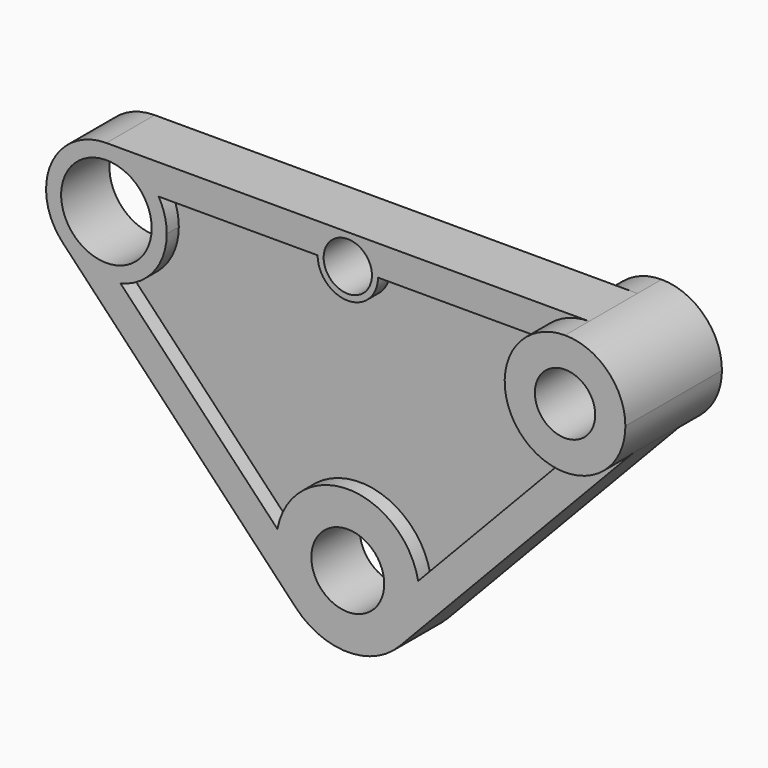
from build123d import *

# Parameters (mm, degrees)
F0_R     = 9.525
F0_R_2   = 5.08
F0_R_3   = 6.35
F0_R_4   = 7.668055
F1_DEPTH = 6.35
F2_DEPTH = 3.175
F3_DEPTH = 12.7


with BuildPart() as f1:
    # F0 (on Front) → F1 (new body, symmetric)
    with BuildSketch(Plane.XZ):
        with BuildLine():
            ThreePointArc((-47.831061, 12.261839), (-40.825144, 16.749128), (-38.1, 24.609932))
            ThreePointArc((-38.1, 24.609932), (-38.532742, 27.896934), (-39.801477, 30.959932))
            ThreePointArc((-39.801477, 30.959932), (-44.45, 35.608455), (-50.8, 37.309932))
            ThreePointArc((-50.8, 37.309932), (-62.469497, 29.621203), (-60.009293, 15.864709))
            ThreePointArc((-60.009293, 15.864709), (-54.40287, 12.4317), (-47.831061, 12.261839))
        make_face()
        with Locations((-50.8, 24.609932)):
            Circle(F0_R, mode=Mode.SUBTRACT)
        with BuildLine():
            ThreePointArc((-50.8, 37.309932), (-44.45, 35.608455), (-39.801477, 30.959932))
            Line((-39.801477, 30.959932), (-6.35, 30.959932))
            ThreePointArc((-6.35, 30.959932), (-4.490128, 35.45006), (0, 37.309932))
            Line((0, 37.309932), (-50.8, 37.309932))
        make_face()
        with BuildLine():
            ThreePointArc((0, 37.309932), (-4.490128, 35.45006), (-6.35, 30.959932))
            ThreePointArc((-6.35, 30.959932), (0, 24.609932), (6.35, 30.959932))
            ThreePointArc((6.35, 30.959932), (4.490128, 35.45006), (0, 37.309932))
        make_face()
        with Locations((0, 30.959932)):
            Circle(F0_R_2, mode=Mode.SUBTRACT)
        with BuildLine():
            Line((50.8, 37.309932), (0, 37.309932))
            ThreePointArc((0, 37.309932), (4.490128, 35.45006), (6.35, 30.959932))
            Line((6.35, 30.959932), (39.801477, 30.959932))
            ThreePointArc((39.801477, 30.959932), (44.45, 35.608455), (50.8, 37.309932))
        make_face()
        with BuildLine():
            ThreePointArc((63.5, 24.609932), (59.780256, 33.590188), (50.8, 37.309932))
            ThreePointArc((50.8, 37.309932), (44.45, 35.608455), (39.801477, 30.959932))
            ThreePointArc((39.801477, 30.959932), (39.130503, 19.598661), (47.831061, 12.261839))
            ThreePointArc((47.831061, 12.261839), (54.40287, 12.4317), (60.009293, 15.864709))
            ThreePointArc((60.009293, 15.864709), (62.595084, 19.901855), (63.5, 24.609932))
        make_face()
        with Locations((50.8, 24.609932)):
            Circle(F0_R_3, mode=Mode.SUBTRACT)
        with BuildLine():
            Line((47.831061, 12.261839), (14.819522, -22.501475))
            ThreePointArc((14.819522, -22.501475), (15.029956, -23.943953), (15.10032, -25.4))
            ThreePointArc((15.10032, -25.4), (14.024374, -30.997911), (10.949864, -35.798084))
            Line((10.949864, -35.798084), (60.009293, 15.864709))
            ThreePointArc((60.009293, 15.864709), (54.40287, 12.4317), (47.831061, 12.261839))
        make_face()
        with BuildLine():
            ThreePointArc((14.819522, -22.501475), (0, -10.29968), (-14.819522, -22.501475))
            ThreePointArc((-14.819522, -22.501475), (-14.498802, -29.619527), (-10.949864, -35.798084))
            ThreePointArc((-10.949864, -35.798084), (0, -40.50032), (10.949864, -35.798084))
            ThreePointArc((10.949864, -35.798084), (14.024374, -30.997911), (15.10032, -25.4))
            ThreePointArc((15.10032, -25.4), (15.029956, -23.943953), (14.819522, -22.501475))
        make_face()
        with Locations((0, -25.4)):
            Circle(F0_R_4, mode=Mode.SUBTRACT)
        with BuildLine():
            Line((-14.819522, -22.501475), (-47.831061, 12.261839))
            ThreePointArc((-47.831061, 12.261839), (-54.40287, 12.4317), (-60.009293, 15.864709))
            Line((-60.009293, 15.864709), (-10.949864, -35.798084))
            ThreePointArc((-10.949864, -35.798084), (-14.498802, -29.619527), (-14.819522, -22.501475))
        make_face()
    extrude(amount=F1_DEPTH, both=True)

    # F0 (on Front) → F2 (join, symmetric)
    with BuildSketch(Plane.XZ):
        with BuildLine():
            ThreePointArc((-39.801477, 30.959932), (-38.532742, 27.896934), (-38.1, 24.609932))
            ThreePointArc((-38.1, 24.609932), (-40.825144, 16.749128), (-47.831061, 12.261839))
            Line((-47.831061, 12.261839), (-14.819522, -22.501475))
            ThreePointArc((-14.819522, -22.501475), (0, -10.29968), (14.819522, -22.501475))
            Line((14.819522, -22.501475), (47.831061, 12.261839))
            ThreePointArc((47.831061, 12.261839), (39.130503, 19.598661), (39.801477, 30.959932))
            Line((39.801477, 30.959932), (6.35, 30.959932))
            ThreePointArc((6.35, 30.959932), (0, 24.609932), (-6.35, 30.959932))
            Line((-6.35, 30.959932), (-39.801477, 30.959932))
        make_face()
    extrude(amount=F2_DEPTH, both=True)

    # F0 (on Front) → F3 (join, symmetric)
    with BuildSketch(Plane.XZ):
        with BuildLine():
            ThreePointArc((63.5, 24.609932), (59.780256, 33.590188), (50.8, 37.309932))
            ThreePointArc((50.8, 37.309932), (44.45, 35.608455), (39.801477, 30.959932))
            ThreePointArc((39.801477, 30.959932), (39.130503, 19.598661), (47.831061, 12.261839))
            ThreePointArc((47.831061, 12.261839), (54.40287, 12.4317), (60.009293, 15.864709))
            ThreePointArc((60.009293, 15.864709), (62.595084, 19.901855), (63.5, 24.609932))
        make_face()
        with Locations((50.8, 24.609932)):
            Circle(F0_R_3, mode=Mode.SUBTRACT)
    extrude(amount=F3_DEPTH, both=True)


solid = f1.part
